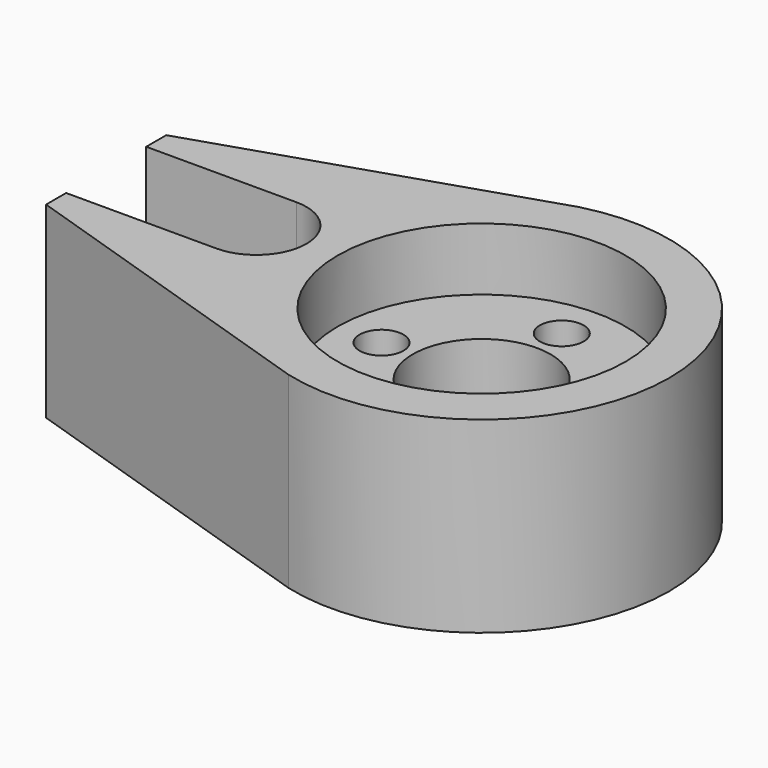
from build123d import *

# Parameters (mm, degrees)
F0_R     = 5.5
F1_DEPTH = 15
F2_R     = 11.5
F3_DEPTH = 5
F5_D     = 3.5


with BuildPart() as f1:
    # F0 (on Top) → F1 (new body)
    with BuildSketch(Plane.XY):
        with BuildLine():
            ThreePointArc((-18, 4), (-14, 0), (-18, -4))
            Line((-18, -4), (-30, -4))
            Line((-30, -4), (-30, -6))
            Line((-30, -6), (-3.83581, -14.501261))
            ThreePointArc((-3.83581, -14.501261), (15, 0), (-3.83581, 14.501261))
            Line((-3.83581, 14.501261), (-30, 6))
            Line((-30, 6), (-30, 4))
            Line((-30, 4), (-18, 4))
        make_face()
        Circle(F0_R, mode=Mode.SUBTRACT)
    extrude(amount=F1_DEPTH)

    # F2 (on face) → F3 (cut)
    with BuildSketch(Plane.XY.offset(15)):
        Circle(F2_R)
    extrude(amount=-F3_DEPTH, mode=Mode.SUBTRACT)

    # F5 (through all)
    with Locations(Plane.XY.offset(10)):
        with Locations((0, 8), (8, 0), (0, -8), (-8, 0)):
            Hole(F5_D / 2)


solid = f1.part
